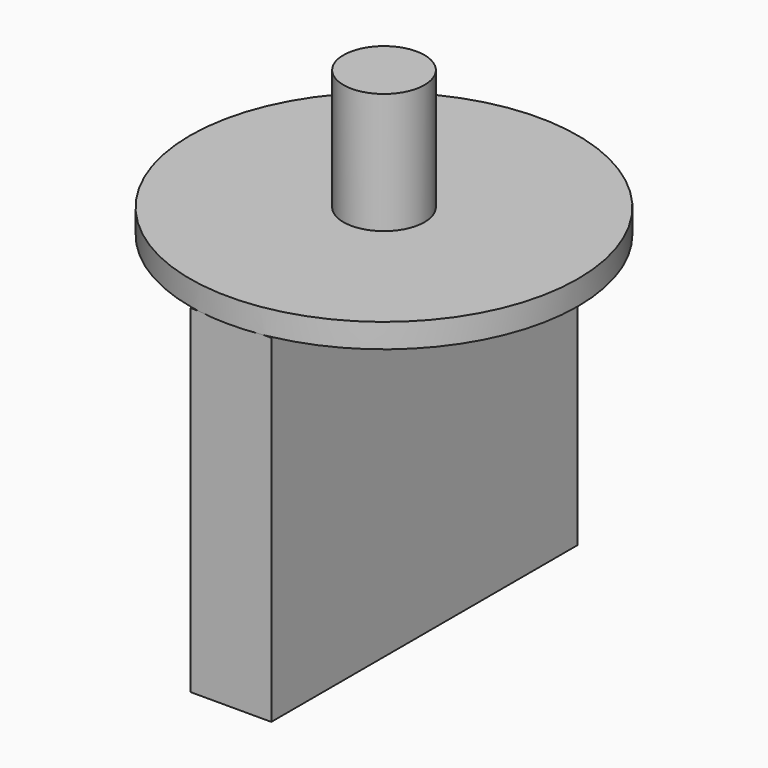
from build123d import *

# Parameters (mm, degrees)
F0_W     = 4.2418
F0_H     = 20.1168
F7_DEPTH = 17.78
F1_R     = 2.130855
F2_DEPTH = 7.62
F1_R_2   = 10.202132
F3_DEPTH = 1.27


with BuildPart() as f7:
    # F0 (on Top) → F7 (new body)
    with BuildSketch(Plane.XY):
        Rectangle(F0_W, F0_H)
    extrude(amount=F7_DEPTH)

    # F1 (on offset) → F2 (join)
    with BuildSketch(Plane.XY.offset(17.78)):
        Circle(F1_R)
    extrude(amount=F2_DEPTH)

    # F1 (on offset) → F3 (join)
    with BuildSketch(Plane.XY.offset(17.78)):
        Circle(F1_R_2)
        Circle(F1_R, mode=Mode.SUBTRACT)
    extrude(amount=F3_DEPTH)


solid = f7.part
